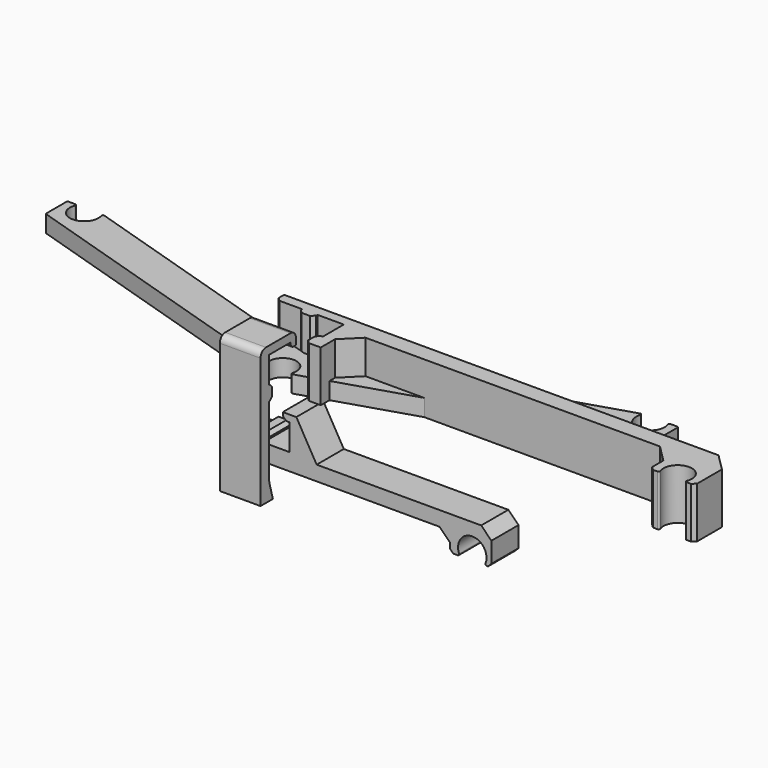
from build123d import *

# Parameters (mm, degrees)
F2_DEPTH  = 10
F3_SIZE   = 1
F4_SIZE   = 3
F6_DEPTH  = 15
F7_SIZE   = 1
F8_SIZE   = 5
F9_R      = 0.4
F9_2_R    = 0.4
F15_DEPTH = 5
F16_R     = 0.4
F12_DEPTH = 12
F13_SIZE  = 0.8
F14_R     = 2


with BuildPart() as f2:
    # F1 (on Front) → F2 (new body)
    with BuildSketch(Plane.XZ):
        with BuildLine():
            Line((8, -0.25), (8, -2.25))
            Line((8, -2.25), (10, -2.25))
            Line((10, -2.25), (10, -10))
            Line((10, -10), (2.25, -10))
            Line((2.25, -10), (2.25, -8.5))
            Line((2.25, -8.5), (-2.25, -8.5))
            Line((-2.25, -8.5), (-2.25, -10))
            Line((-2.25, -10), (-9, -10))
            Line((-9, -10), (-9, -15))
            Line((-9, -15), (57.262693, -15))
            Line((57.262693, -15), (57.262693, -20.65))
            Line((57.262693, -20.65), (60.262693, -20.65))
            ThreePointArc((60.262693, -20.65), (62.81296, -14.493112), (68.1, -18.55))
            ThreePointArc((68.1, -18.55), (67.956888, -19.63704), (67.537307, -20.65))
            Line((67.537307, -20.65), (69.537307, -20.65))
            Line((69.537307, -20.65), (69.537307, -10.65))
            Line((69.537307, -10.65), (18.004443, -10.65))
            Line((18.004443, -10.65), (12, -0.25))
            Line((12, -0.25), (8, -0.25))
        make_face()
    extrude(amount=F2_DEPTH)

    # F3
    f3_edges = [f2.edges().sort_by_distance(p)[0] for p in [
        (-2.25, -5, -8.5),
        (2.25, -5, -8.5),
        (8, -5, -2.25),
        (57.262693, -5, -20.65),
        (69.537307, -5, -20.65),
    ]]
    chamfer(f3_edges, length=F3_SIZE)

    # F4
    f4_edges = [f2.edges().sort_by_distance(p)[0] for p in [
        (-9, -5, -15),
        (57.262693, -5, -15),
        (69.537307, -5, -10.65),
    ]]
    chamfer(f4_edges, length=F4_SIZE)

    # F9
    f9_edges = [f2.edges().sort_by_distance(p)[0] for p in [
        (60.262693, -5, -20.65),
        (67.537307, -5, -20.65),
    ]]
    fillet(f9_edges, radius=F9_R)


with BuildPart() as f6:
    # F5 (on Top) → F6 (new body)
    with BuildSketch(Plane.XY):
        with BuildLine():
            ThreePointArc((112.862693, -2.1), (115.41296, 4.056888), (120.7, 0))
            ThreePointArc((120.7, 0), (120.556888, -1.08704), (120.137307, -2.1))
            Line((120.137307, -2.1), (123.137307, -2.1))
            Line((123.137307, -2.1), (123.137307, 13))
            Line((123.137307, 13), (-10, 13))
            Line((-10, 13), (-10, 10))
            Line((-10, 10), (-2.25, 10))
            Line((-2.25, 10), (-2.25, 8.5))
            Line((-2.25, 8.5), (2.25, 8.5))
            Line((2.25, 8.5), (2.25, 10))
            Line((2.25, 10), (10, 10))
            Line((10, 10), (10, 2.25))
            Line((10, 2.25), (8.5, 2.25))
            Line((8.5, 2.25), (8.5, -2.25))
            Line((8.5, -2.25), (10, -2.25))
            Line((10, -2.25), (13, -2.25))
            Line((13, -2.25), (13, 8))
            Line((13, 8), (109.862693, 8))
            Line((109.862693, 8), (109.862693, -2.1))
            Line((109.862693, -2.1), (112.862693, -2.1))
        make_face()
    extrude(amount=F6_DEPTH)

    # F7
    f7_edges = [f6.edges().sort_by_distance(p)[0] for p in [
        (8.5, 2.25, 7.5),
        (8.5, -2.25, 7.5),
        (-2.25, 8.5, 7.5),
        (2.25, 8.5, 7.5),
        (-10, 10, 7.5),
        (109.862693, -2.1, 7.5),
        (123.137307, -2.1, 7.5),
    ]]
    chamfer(f7_edges, length=F7_SIZE)

    # F8
    f8_edges = [f6.edges().sort_by_distance(p)[0] for p in [
        (123.137307, 13, 7.5),
        (109.862693, 8, 7.5),
        (13, 8, 7.5),
    ]]
    chamfer(f8_edges, length=F8_SIZE)

    # F9#2
    f9_2_edges = [f6.edges().sort_by_distance(p)[0] for p in [
        (112.862693, -2.1, 7.5),
        (120.137307, -2.1, 7.5),
    ]]
    fillet(f9_2_edges, radius=F9_2_R)


with BuildPart() as f15:
    # F10 (on Top) → F15 (new body)
    with BuildSketch(Plane.XY):
        with BuildLine():
            ThreePointArc((-3.507403, -2.025), (-1.048217, 3.912), (4.05, 0))
            ThreePointArc((4.05, 0), (3.912, -1.048217), (3.507403, -2.025))
            Line((3.507403, -2.025), (90.137307, 25.25))
            Line((90.137307, 25.25), (90.137307, 33.25))
            Line((90.137307, 33.25), (87.137307, 33.25))
            ThreePointArc((87.137307, 33.25), (87.556888, 32.23704), (87.7, 31.15))
            ThreePointArc((87.7, 31.15), (82.41296, 27.093112), (79.862693, 33.25))
            Line((79.862693, 33.25), (0, 8.105623))
            Line((0, 8.105623), (-79.862693, 33.25))
            ThreePointArc((-79.862693, 33.25), (-79.443112, 32.23704), (-79.3, 31.15))
            ThreePointArc((-79.3, 31.15), (-84.58704, 27.093112), (-87.137307, 33.25))
            Line((-87.137307, 33.25), (-90.137307, 33.25))
            Line((-90.137307, 33.25), (-90.137307, 25.25))
            Line((-90.137307, 25.25), (-3.507403, -2.025))
        make_face()
    extrude(amount=F15_DEPTH)

    # F16
    f16_edges = [f15.edges().sort_by_distance(p)[0] for p in [
        (-3.507403, -2.025, 2.5),
        (3.507403, -2.025, 2.5),
        (0, 8.105623, 2.5),
        (79.862693, 33.25, 2.5),
        (87.137307, 33.25, 2.5),
        (90.137307, 33.25, 2.5),
        (90.137307, 25.25, 2.5),
        (-90.137307, 33.25, 2.5),
        (-90.137307, 25.25, 2.5),
        (-79.862693, 33.25, 2.5),
        (-87.137307, 33.25, 2.5),
    ]]
    fillet(f16_edges, radius=F16_R)


with BuildPart() as f12:
    # F11 (on Right) → F12 (new body)
    with BuildSketch(Plane.YZ):
        Polygon((-12.15, 20), (-12.15, 18.5), (-10.15, 18.5), (-10.15, 22.4), (-23.2, 22.4), (-23.2, -18), (-18.660254, -18), (-20, -13), (-20, 7.85), (-19, 7.85), (-19, 12.15), (-20, 12.15), (-20, 20), align=None)
    extrude(amount=F12_DEPTH)

    # F13
    f13_edges = [f12.edges().sort_by_distance(p)[0] for p in [
        (6, -19, 12.15),
        (6, -12.15, 18.5),
        (6, -19, 7.85),
    ]]
    chamfer(f13_edges, length=F13_SIZE)

    # F14
    f14_edges = [f12.edges().sort_by_distance(p)[0] for p in [
        (6, -23.2, 22.4),
        (6, -20, -13),
        (6, -10.15, 22.4),
    ]]
    fillet(f14_edges, radius=F14_R)


solid = Compound([f2.part, f6.part, f15.part, f12.part])
